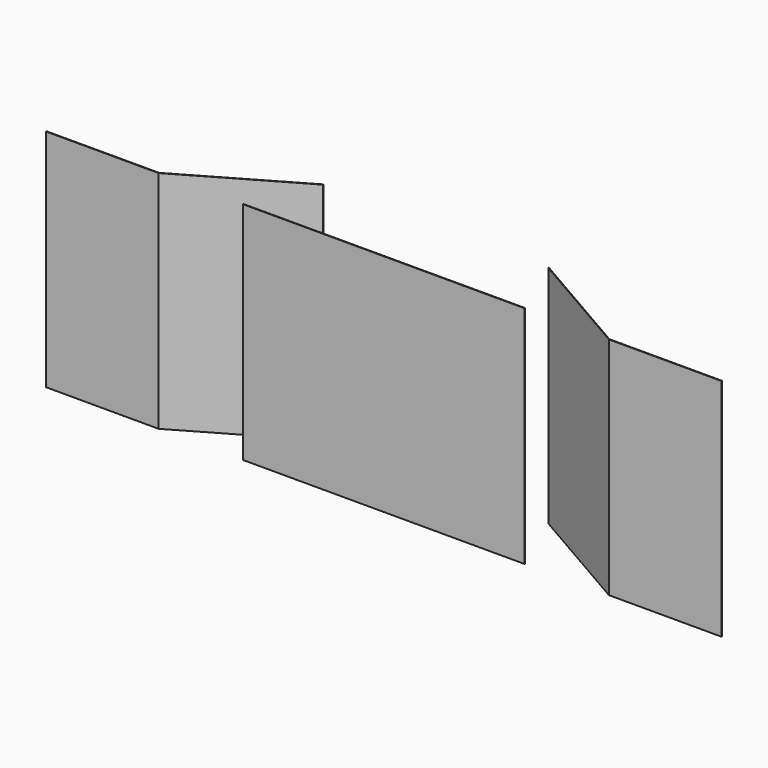
from build123d import *

# Parameters (mm, degrees)
F0_W     = 5000
F0_H     = 10
F1_DEPTH = 4000


with BuildPart() as f1:
    # F0 (on Top) → F1 (new body)
    with BuildSketch(Plane.XY):
        with Locations((0, 5)):
            Rectangle(F0_W, F0_H)
        Polygon((2000, 1154.700538), (4000, 0), (6000, 0), (6000, 10), (4000, 10), (2000, 1164.700538), align=None)
        Polygon((-6000, 10), (-6000, 0), (-4000, 0), (-2000, 1154.700538), (-2000, 1164.700538), (-4000, 10), align=None)
    extrude(amount=F1_DEPTH)


solid = f1.part
